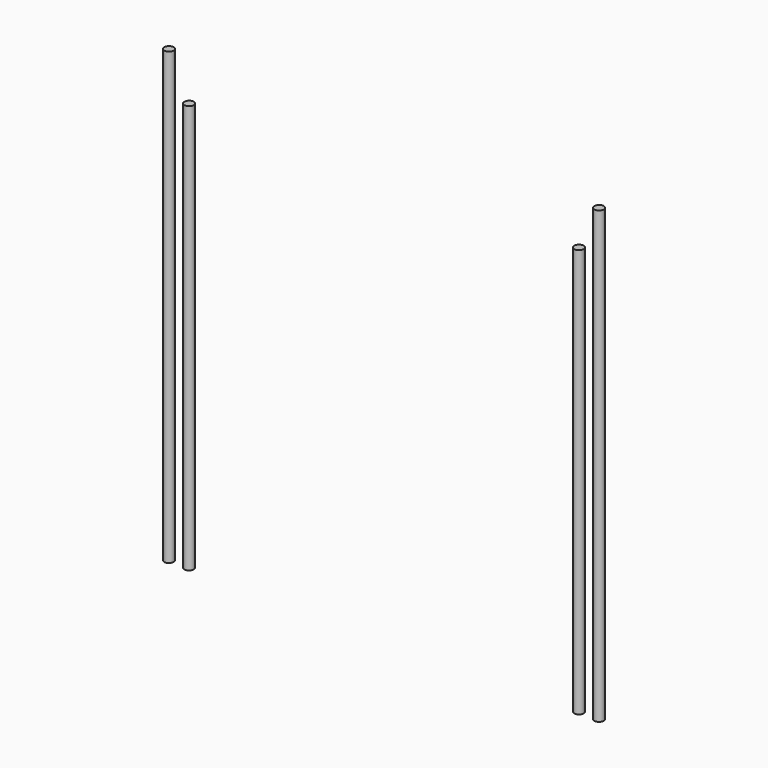
from build123d import *

# Parameters (mm, degrees)
F0_R      = 4
F1_DEPTH  = 380
F1_FACE_R = 4
F2_DEPTH  = 35
F3_DEPTH  = 35


with BuildPart() as f1:
    # F0 (on Top) → F1 (new body)
    with BuildSketch(Plane.XY):
        with Locations((17, 0)):
            Circle(F0_R)
        Circle(F0_R)
        with Locations((346, 0)):
            Circle(F0_R)
        with Locations((363, 0)):
            Circle(F0_R)
    extrude(amount=F1_DEPTH)

    # F1_face (on face) → F2 (cut)
    with BuildSketch(Plane(origin=(17, 0, 380), x_dir=(1, 0, 0), z_dir=(0, 0, 1))):
        Circle(F1_FACE_R)
    extrude(amount=-F2_DEPTH, mode=Mode.SUBTRACT)

    # F1_face (on face) → F3 (cut)
    with BuildSketch(Plane(origin=(17, 0, 380), x_dir=(1, 0, 0), z_dir=(0, 0, 1))):
        with Locations((329, 0)):
            Circle(F1_FACE_R)
    extrude(amount=-F3_DEPTH, mode=Mode.SUBTRACT)


solid = f1.part
